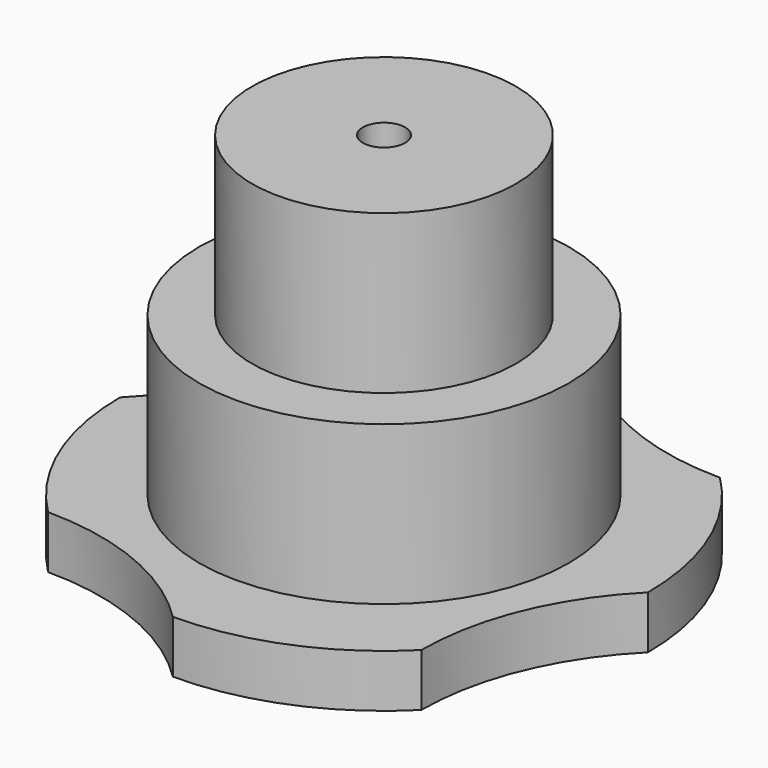
from build123d import *

# Parameters (mm, degrees)
F0_R     = 7.5
F1_DEPTH = 5
F2_R     = 17.5
F2_R_2   = 7.5
F3_DEPTH = 15
F4_R     = 12.5
F4_R_2   = 2
F5_DEPTH = 15


with BuildPart() as f1:
    # F0 (on Top) → F1 (new body)
    with BuildSketch(Plane.XY):
        with BuildLine():
            ThreePointArc((-17.67767, 17.67767), (-19.580681, 8.110584), (-25, 0))
            ThreePointArc((-25, 0), (-23.096988, -9.567086), (-17.67767, -17.67767))
            ThreePointArc((-17.67767, -17.67767), (-8.110584, -19.580681), (0, -25))
            ThreePointArc((0, -25), (9.567086, -23.096988), (17.67767, -17.67767))
            ThreePointArc((17.67767, -17.67767), (19.580681, -8.110584), (25, 0))
            ThreePointArc((25, 0), (23.096988, 9.567086), (17.67767, 17.67767))
            ThreePointArc((17.67767, 17.67767), (8.110584, 19.580681), (0, 25))
            ThreePointArc((0, 25), (-9.567086, 23.096988), (-17.67767, 17.67767))
        make_face()
        Circle(F0_R, mode=Mode.SUBTRACT)
    extrude(amount=F1_DEPTH)

    # F2 (on face) → F3 (join)
    with BuildSketch(Plane.XY.offset(5)):
        Circle(F2_R)
        Circle(F2_R_2, mode=Mode.SUBTRACT)
    extrude(amount=F3_DEPTH)

    # F4 (on face) → F5 (join)
    with BuildSketch(Plane.XY.offset(20)):
        Circle(F4_R)
        Circle(F4_R_2, mode=Mode.SUBTRACT)
        Circle(F4_R)
        Circle(F4_R_2, mode=Mode.SUBTRACT)
    extrude(amount=F5_DEPTH)


solid = f1.part
